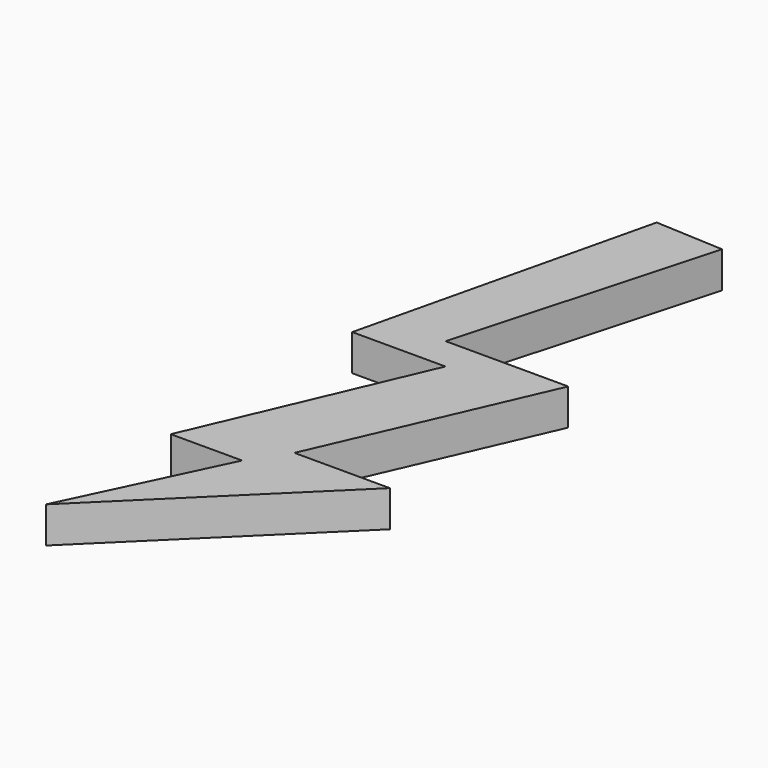
from build123d import *

# Parameters (mm, degrees)
PAD_DEPTH = 5


with BuildPart() as part:
    # Sketch → Pad (new body)
    with BuildSketch(Plane.XY):
        Polygon((19.828732, 49.952236), (10.187894, 9.498552), (23.042334, 9.498552), (9.809828, -21.314304), (19.639688, -21.314304), (9.543935, -42.489288), (36.096161, -16.398832), (22.935503, -16.398832), (36.280285, 14.125288), (19.39271, 14.125288), (29.211067, 49.471348), align=None)
    extrude(amount=PAD_DEPTH)


solid = part.part
